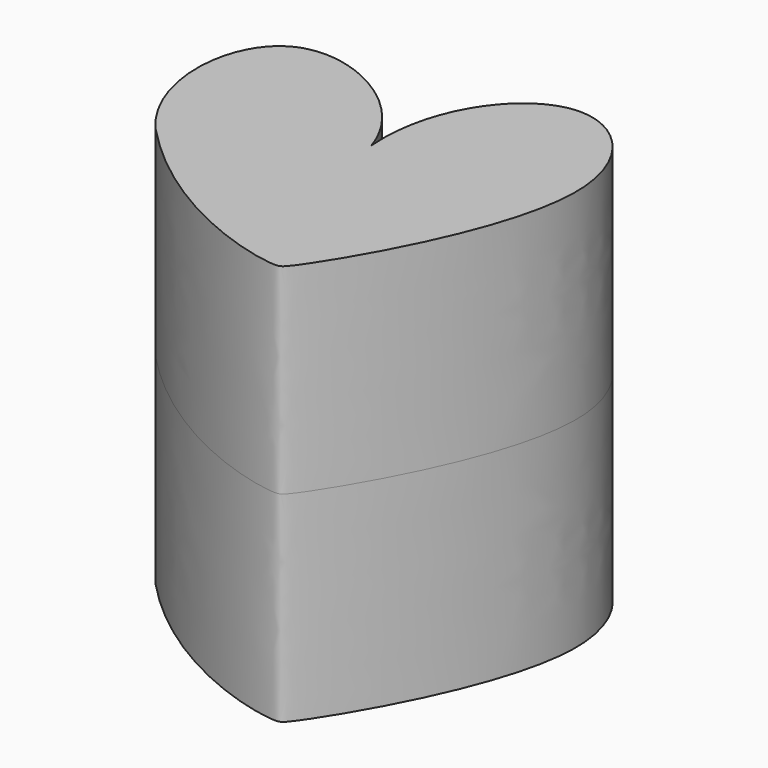
from build123d import *

# Parameters (mm, degrees)
F1_DEPTH = 25.4


with BuildPart() as f1:
    # F0 (on Top) → F1 (new body, symmetric)
    with BuildSketch(Plane.XY):
        with BuildLine():
            add(Edge.make_bspline(
                [(-65.4627233744, 7.2727343068), (-72.3900049925, 15.1236439124), (-70.7237921771, 38.1830284647), (-49.3007079686, 26.5261640003), (-46.5477491757, 17.7400743151)],
                knots=[0, 0, 0, 0, 0.4979579732, 1, 1, 1, 1], degree=3))
            add(Edge.make_bspline(
                [(-65.4627233744, 7.2727343068), (-54.032728076, -4.8499926925), (-38.4652041871, -8.6533419842), (-36.2696221813, -7.4927339107), (-17.3373202952, 23.5038485832), (-36.1913831015, 42.947648194), (-47.3906944447, 28.0483217517), (-46.5477491757, 17.7400743151)],
                knots=[0, 0, 0, 0, 0.2599478609, 0.3250971823, 0.5908823376, 0.7834129105, 1, 1, 1, 1], degree=3))
        make_face()
    extrude(amount=F1_DEPTH, both=True)


solid = f1.part
